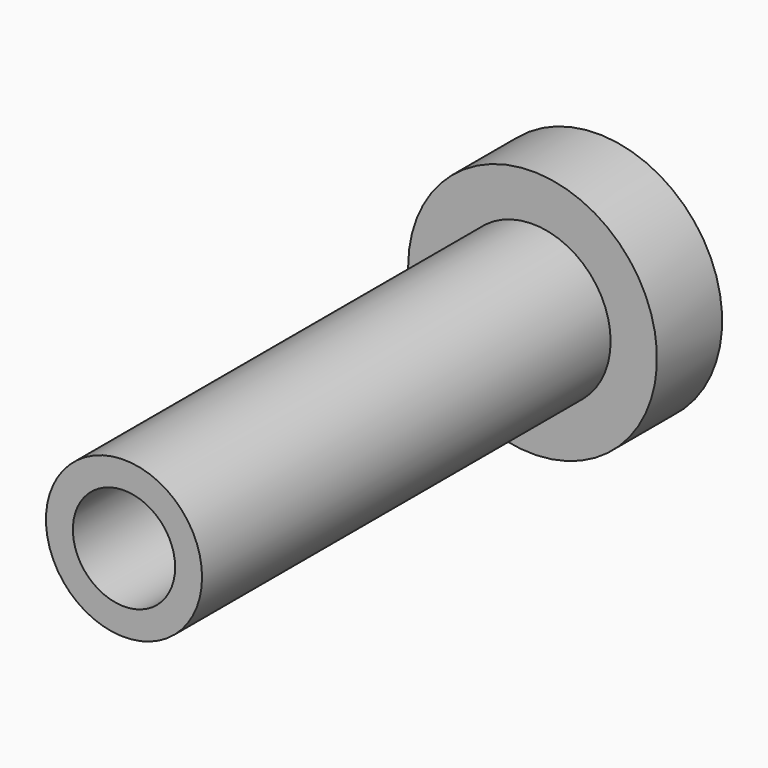
from build123d import *

# Parameters (mm, degrees)
F0_R     = 11.402
F1_DEPTH = 74.6
F2_R     = 18.172457
F3_DEPTH = 11.9
F4_R     = 7.470799
F5_DEPTH = 67.4


with BuildPart() as f1:
    # F0 (on Front) → F1 (new body)
    with BuildSketch(Plane.XZ):
        with Locations((1.429774, 0)):
            Circle(F0_R)
    extrude(amount=F1_DEPTH)

    # F2 (on face) → F3 (join)
    with BuildSketch(Plane(origin=(0, 0, 0), x_dir=(-1, 0, 0), z_dir=(0, 1, 0))):
        with Locations((-1.429774, 0)):
            Circle(F2_R)
    extrude(amount=F3_DEPTH)

    # F4 (on face) → F5 (cut)
    with BuildSketch(Plane.XZ.offset(74.6)):
        with Locations((1.429774, 0)):
            Circle(F4_R)
    extrude(amount=-F5_DEPTH, mode=Mode.SUBTRACT)


solid = f1.part
